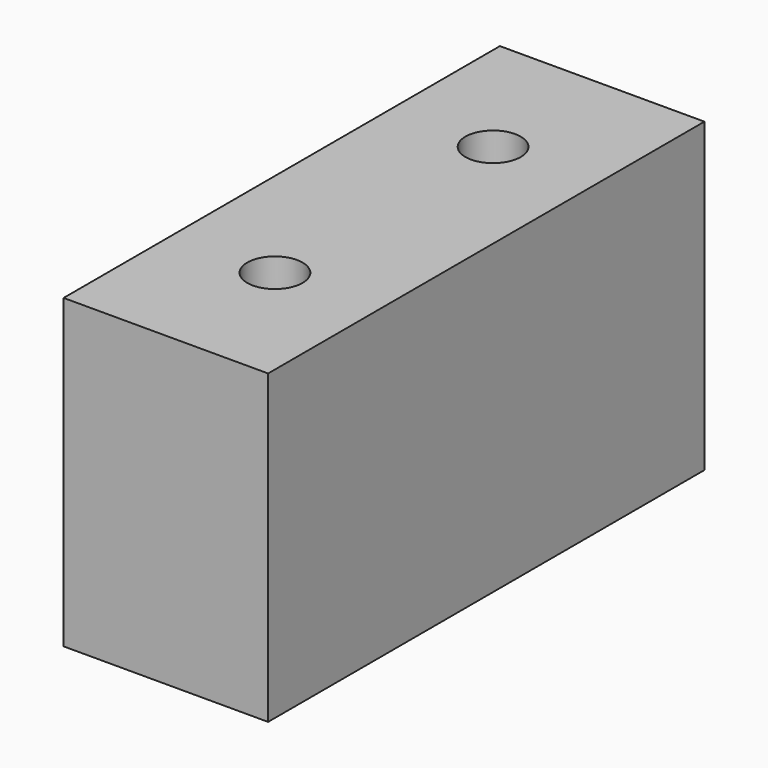
from build123d import *

# Parameters (mm, degrees)
F0_W     = 38.1
F0_H     = 57.15
F1_DEPTH = 101.6
F2_R     = 5.15112
F3_DEPTH = 19.05


with BuildPart() as f1:
    # F0 (on Front) → F1 (new body)
    with BuildSketch(Plane.XZ):
        with Locations((19.05, 28.575)):
            Rectangle(F0_W, F0_H)
    extrude(amount=F1_DEPTH)

    # F2 (on face) → F3 (cut)
    with BuildSketch(Plane.XY.offset(57.15)):
        with Locations((19.05, -25.4)):
            Circle(F2_R)
        with Locations((19.05, -76.2)):
            Circle(F2_R)
    extrude(amount=-F3_DEPTH, mode=Mode.SUBTRACT)


solid = f1.part
